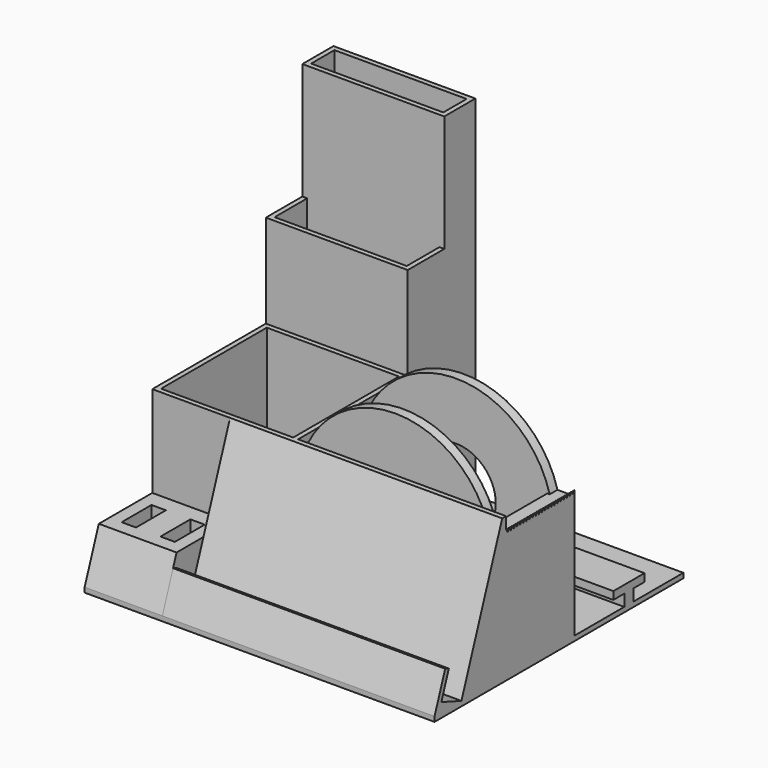
from build123d import *

# Parameters (mm, degrees)
F0_W      = 114.3
F0_H      = 101.6
F1_DEPTH  = 1.5875
F2_W      = 46.355
F2_H      = 46.355
F2_W_2    = 43.18
F2_H_2    = 43.18
F3_DEPTH  = 45.72
F4_W      = 88.9
F4_H      = 1.5875
F5_DEPTH  = 45.72
F7_DEPTH  = 88.9
F9_DEPTH  = 1.5875
F11_DEPTH = 1.5875
F12_W     = 25.4
F12_H     = 27.6225
F12_W_2   = 22.225
F12_H_2   = 24.4475
F12_W_3   = 7.874
F12_H_3   = 15.367
F12_W_4   = 4.699
F12_H_4   = 12.192
F13_DEPTH = 15.875
F14_W     = 25.4
F14_H     = 27.6225
F14_W_2   = 4.699
F14_H_2   = 12.192
F15_DEPTH = 1.5875
F17_DEPTH = 25.4
F18_W     = 6.35
F18_H     = 21.59
F19_DEPTH = 38.1
F21_DEPTH = 27.94
F23_DEPTH = 25.4
F25_DEPTH = 3.175
F26_R     = 31.75
F27_DEPTH = 3.175
F28_R     = 13.0175
F29_DEPTH = 27.94
F30_W     = 46.355
F30_H     = 27.6225
F30_W_2   = 43.18
F30_H_2   = 24.4475
F31_DEPTH = 76.2
F32_W     = 46.355
F32_H     = 12.7
F33_DEPTH = 1.5875
F34_W     = 43.18
F34_H     = 1.5875
F35_DEPTH = 76.2
F36_W     = 46.355
F36_H     = 12.7
F36_W_2   = 43.18
F36_H_2   = 9.525
F37_DEPTH = 38.1
F38_W     = 43.18
F38_H     = 9.525
F39_DEPTH = 25.4
F41_DEPTH = 67.945
F43_DEPTH = 25.4


with BuildPart() as f1:
    # F0 (on Top) → F1 (new body)
    with BuildSketch(Plane.XY):
        Rectangle(F0_W, F0_H)
    extrude(amount=F1_DEPTH)

    # F2 (on face) → F3 (join)
    with BuildSketch(Plane.XY.offset(1.5875)):
        with Locations((-33.9725, 0)):
            Rectangle(F2_W, F2_H)
        with Locations((-33.9725, 0)):
            Rectangle(F2_W_2, F2_H_2, mode=Mode.SUBTRACT)
    extrude(amount=F3_DEPTH)

    # F4 (on face) → F5 (join)
    with BuildSketch(Plane.XY.offset(1.5875)):
        with Locations((12.7, -22.38375)):
            Rectangle(F4_W, F4_H)
    extrude(amount=F5_DEPTH)

    # F6 (on face) → F7 (join)
    with BuildSketch(Plane.YZ.offset(57.15)):
        Polygon((-23.1775, 47.3075), (-39.818219, 1.5875), (-38.128837, 1.5875), (-23.1775, 42.665961), align=None)
        Polygon((-46.456344, 13.521596), (-50.8, 1.5875), (-39.818219, 1.5875), (-48.023614, 4.574019), (-44.964582, 12.978639), align=None)
    extrude(amount=-F7_DEPTH)

    # F8 (on face) → F9 (join)
    with BuildSketch(Plane.YZ.offset(57.15)):
        Polygon((-23.1775, 1.5875), (-23.1775, 42.665961), (-38.128837, 1.5875), align=None)
    extrude(amount=-F9_DEPTH)

    # F10 (on face) → F11 (join)
    with BuildSketch(Plane(origin=(-31.75, 0, 0), x_dir=(0, -1, 0), z_dir=(-1, 0, 0))):
        Polygon((23.1775, 1.5875), (38.128837, 1.5875), (23.1775, 42.665961), align=None)
    extrude(amount=-F11_DEPTH)

    # F12 (on face) → F13 (join)
    with BuildSketch(Plane.XY.offset(1.5875)):
        with Locations((-44.45, -36.98875)):
            Rectangle(F12_W, F12_H)
        with Locations((-44.45, -36.98875)):
            Rectangle(F12_W_2, F12_H_2, mode=Mode.SUBTRACT)
        with Locations((-38.1, -34.6075)):
            Rectangle(F12_W_3, F12_H_3)
        with Locations((-38.1, -34.6075)):
            Rectangle(F12_W_4, F12_H_4, mode=Mode.SUBTRACT)
        with Locations((-50.8, -34.6075)):
            Rectangle(F12_W_3, F12_H_3)
        with Locations((-50.8, -34.6075)):
            Rectangle(F12_W_4, F12_H_4, mode=Mode.SUBTRACT)
    extrude(amount=F13_DEPTH)

    # F14 (on face) → F15 (join)
    with BuildSketch(Plane.XY.offset(17.4625)):
        with Locations((-44.45, -36.98875)):
            Rectangle(F14_W, F14_H)
        with Locations((-50.8, -34.6075)):
            Rectangle(F14_W_2, F14_H_2, mode=Mode.SUBTRACT)
        with Locations((-38.1, -34.6075)):
            Rectangle(F14_W_2, F14_H_2, mode=Mode.SUBTRACT)
    extrude(amount=-F15_DEPTH)

    # F16 (on face) → F17 (cut)
    with BuildSketch(Plane.YZ.offset(-31.75)):
        Polygon((-50.8, 17.4625), (-50.8, 1.5875), (-45.021973, 17.4625), align=None)
    extrude(amount=-F17_DEPTH, mode=Mode.SUBTRACT)

    # F18 (on face) → F19 (join)
    with BuildSketch(Plane.XY.offset(1.5875)):
        Polygon((-10.795, -18.415), (-10.795, -21.59), (57.15, -21.59), (57.15, -18.415), (50.8, -18.415), align=None)
        with Locations((53.975, -7.62)):
            Rectangle(F18_W, F18_H)
        Polygon((50.8, 3.175), (57.15, 3.175), (57.15, 6.35), (-10.795, 6.35), (-10.795, 3.175), align=None)
    extrude(amount=F19_DEPTH)

    # F20 (on face) → F21 (join, through all)
    with BuildSketch(Plane(origin=(0, -21.59, 0), x_dir=(-1, 0, 0), z_dir=(0, 1, 0))):
        Polygon((-55.353949, 41.701449), (-57.15, 43.4975), (-57.15, 39.6875), (-50.8, 39.6875), (-50.8, 41.701449), align=None)
    extrude(amount=F21_DEPTH)

    # F22 (on face) → F23 (cut)
    with BuildSketch(Plane.YZ.offset(57.15)):
        Polygon((-20.32, 43.4975), (-21.59, 43.4975), (-20.955, 42.397648), align=None)
        Polygon((6.35, 43.4975), (5.08, 43.4975), (5.715, 42.397648), align=None)
        Polygon((5.08, 43.4975), (3.81, 43.4975), (4.445, 42.397648), align=None)
        Polygon((3.81, 43.4975), (2.54, 43.4975), (3.175, 42.397648), align=None)
        Polygon((2.54, 43.4975), (1.27, 43.4975), (1.905, 42.397648), align=None)
        Polygon((1.27, 43.4975), (0, 43.4975), (0.635, 42.397648), align=None)
        Polygon((0, 43.4975), (-1.27, 43.4975), (-0.635, 42.397648), align=None)
        Polygon((-1.27, 43.4975), (-2.54, 43.4975), (-1.905, 42.397648), align=None)
        Polygon((-2.54, 43.4975), (-3.81, 43.4975), (-3.175, 42.397648), align=None)
        Polygon((-3.81, 43.4975), (-5.08, 43.4975), (-4.445, 42.397648), align=None)
        Polygon((-5.08, 43.4975), (-6.35, 43.4975), (-5.715, 42.397648), align=None)
        Polygon((-6.35, 43.4975), (-7.62, 43.4975), (-6.985, 42.397648), align=None)
        Polygon((-7.62, 43.4975), (-8.89, 43.4975), (-8.255, 42.397648), align=None)
        Polygon((-8.89, 43.4975), (-10.16, 43.4975), (-9.525, 42.397648), align=None)
        Polygon((-10.16, 43.4975), (-11.43, 43.4975), (-10.795, 42.397648), align=None)
        Polygon((-11.43, 43.4975), (-12.7, 43.4975), (-12.065, 42.397648), align=None)
        Polygon((-12.7, 43.4975), (-13.97, 43.4975), (-13.335, 42.397648), align=None)
        Polygon((-13.97, 43.4975), (-15.24, 43.4975), (-14.605, 42.397648), align=None)
        Polygon((-15.24, 43.4975), (-16.51, 43.4975), (-15.875, 42.397648), align=None)
        Polygon((-16.51, 43.4975), (-17.78, 43.4975), (-17.145, 42.397648), align=None)
        Polygon((-17.78, 43.4975), (-19.05, 43.4975), (-18.415, 42.397648), align=None)
        Polygon((-19.05, 43.4975), (-20.32, 43.4975), (-19.685, 42.397648), align=None)
    extrude(amount=-F23_DEPTH, mode=Mode.SUBTRACT)

    # F24 (on face) → F25 (join)
    with BuildSketch(Plane(origin=(0, 6.35, 0), x_dir=(-1, 0, 0), z_dir=(0, 1, 0))):
        with BuildLine():
            Line((-52.06352, 39.6875), (10.15352, 39.6875))
            ThreePointArc((10.15352, 39.6875), (-20.955, 65.0875), (-52.06352, 39.6875))
        make_face()
    extrude(amount=-F25_DEPTH)

    # F26 (on face) → F27 (join)
    with BuildSketch(Plane(origin=(0, -21.59, 0), x_dir=(-1, 0, 0), z_dir=(0, 1, 0))):
        with Locations((-20.955, 33.3375)):
            Circle(F26_R)
    extrude(amount=F27_DEPTH)

    # F28 (on face) → F29 (cut)
    with BuildSketch(Plane(origin=(0, 6.35, 0), x_dir=(-1, 0, 0), z_dir=(0, 1, 0))):
        with Locations((-20.955, 33.3375)):
            Circle(F28_R)
    extrude(amount=-F29_DEPTH, mode=Mode.SUBTRACT)

    # F30 (on face) → F31 (join)
    with BuildSketch(Plane.XY.offset(1.5875)):
        with Locations((-33.9725, 36.98875)):
            Rectangle(F30_W, F30_H)
        with Locations((-33.9725, 36.98875)):
            Rectangle(F30_W_2, F30_H_2, mode=Mode.SUBTRACT)
    extrude(amount=F31_DEPTH)

    # F32 (on face) → F33 (join)
    with BuildSketch(Plane.XY.offset(77.7875)):
        with Locations((-33.9725, 44.45)):
            Rectangle(F32_W, F32_H)
    extrude(amount=-F33_DEPTH)

    # F34 (on face) → F35 (join)
    with BuildSketch(Plane.XY.offset(77.7875)):
        with Locations((-33.9725, 38.89375)):
            Rectangle(F34_W, F34_H)
    extrude(amount=-F35_DEPTH)

    # F36 (on face) → F37 (join)
    with BuildSketch(Plane.XY.offset(77.7875)):
        with Locations((-33.9725, 44.45)):
            Rectangle(F36_W, F36_H)
        with Locations((-33.9725, 44.45)):
            Rectangle(F36_W_2, F36_H_2, mode=Mode.SUBTRACT)
    extrude(amount=F37_DEPTH)

    # F38 (on face) → F39 (cut)
    with BuildSketch(Plane.XY.offset(77.7875)):
        with Locations((-33.9725, 44.45)):
            Rectangle(F38_W, F38_H)
    extrude(amount=-F39_DEPTH, mode=Mode.SUBTRACT)

    # F40 (on face) → F41 (join, through all)
    with BuildSketch(Plane.YZ.offset(-10.795)):
        Polygon((26.67, 5.3975), (26.67, 1.5875), (30.48, 1.5875), (30.48, 5.3975), (34.925, 5.3975), (34.925, 7.9375), (22.225, 7.9375), (22.225, 5.3975), align=None)
    extrude(amount=F41_DEPTH)

    # F42 (on face) → F43 (join)
    with BuildSketch(Plane.YZ.offset(-31.75)):
        Polygon((-43.434473, 17.4625), (-45.021973, 17.4625), (-50.8, 1.5875), (-50.8, 0), (-49.790303, 0), align=None)
    extrude(amount=-F43_DEPTH)


solid = f1.part
